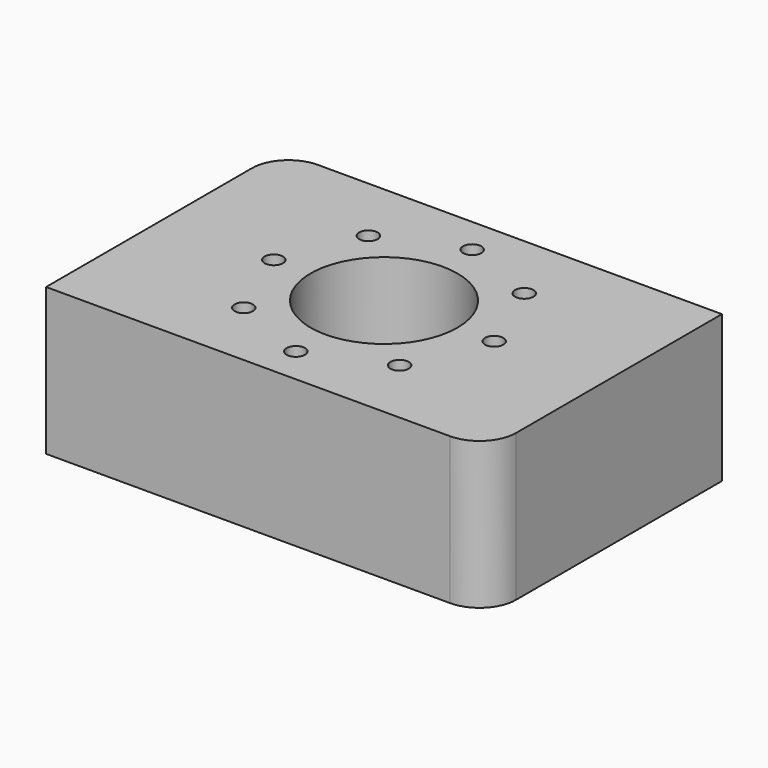
from build123d import *

# Parameters (mm, degrees)
F0_R     = 1.5875
F0_R_2   = 12.7
F1_DEPTH = 25.4


with BuildPart() as f1:
    # F0 (on Top) → F1 (new body)
    with BuildSketch(Plane.XY):
        with BuildLine():
            Line((38.1, -19.05), (38.1, 25.4))
            Line((38.1, 25.4), (-31.75, 25.4))
            ThreePointArc((-31.75, 25.4), (-36.240128, 23.540128), (-38.1, 19.05))
            Line((-38.1, 19.05), (-38.1, -25.4))
            Line((-38.1, -25.4), (31.75, -25.4))
            ThreePointArc((31.75, -25.4), (36.240128, -23.540128), (38.1, -19.05))
        make_face()
        with Locations((-13.470384, -13.470384)):
            Circle(F0_R, mode=Mode.SUBTRACT)
        with Locations((0, -19.05)):
            Circle(F0_R, mode=Mode.SUBTRACT)
        with Locations((-19.05, 0)):
            Circle(F0_R, mode=Mode.SUBTRACT)
        Circle(F0_R_2, mode=Mode.SUBTRACT)
        with Locations((13.470384, -13.470384)):
            Circle(F0_R, mode=Mode.SUBTRACT)
        with Locations((19.05, 0)):
            Circle(F0_R, mode=Mode.SUBTRACT)
        with Locations((-13.470384, 13.470384)):
            Circle(F0_R, mode=Mode.SUBTRACT)
        with Locations((0, 19.05)):
            Circle(F0_R, mode=Mode.SUBTRACT)
        with Locations((13.470384, 13.470384)):
            Circle(F0_R, mode=Mode.SUBTRACT)
    extrude(amount=F1_DEPTH)


solid = f1.part
